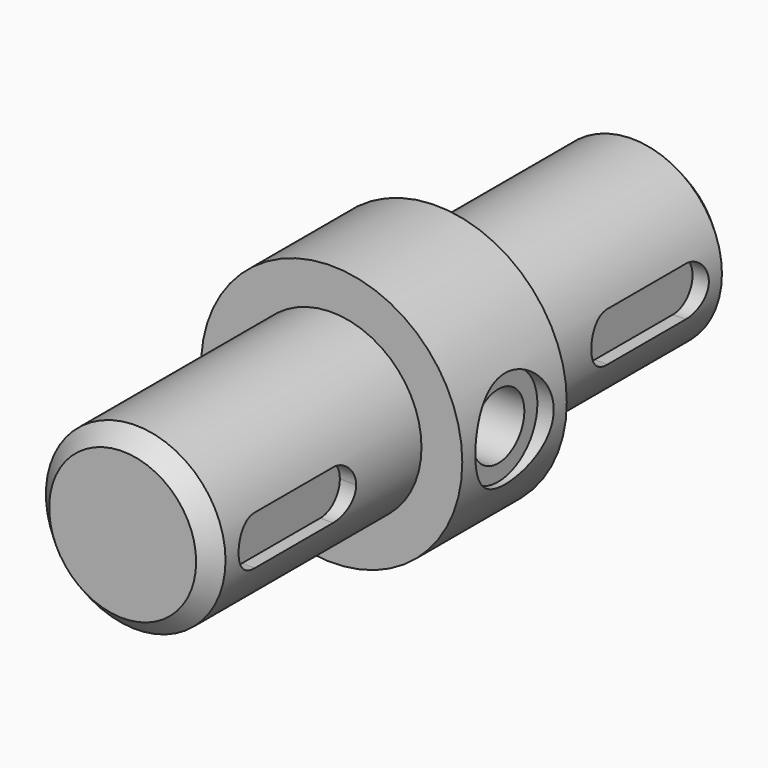
from build123d import *

# Parameters (mm, degrees)
F0_R      = 11
F1_DEPTH  = 40
F2_R      = 16
F3_DEPTH  = 8
F4_R      = 4
F5_DEPTH  = 25
F6_R      = 6
F7_DEPTH  = 25
F8_R      = 6
F8_R_2    = 4
F9_DEPTH  = 14
F11_DEPTH = 25
F13_DEPTH = 9
F14_SIZE2 = 2
F14_SIZE  = 2


with BuildPart() as f1:
    # F0 (on Front) → F1 (new body, symmetric)
    with BuildSketch(Plane.XZ):
        Circle(F0_R)
    extrude(amount=F1_DEPTH, both=True)

    # F2 (on Front) → F3 (join, symmetric)
    with BuildSketch(Plane.XZ):
        Circle(F2_R)
    extrude(amount=F3_DEPTH, both=True)

    # F4 (on Right) → F5 (cut, symmetric)
    with BuildSketch(Plane.YZ):
        Circle(F4_R)
    extrude(amount=F5_DEPTH, both=True, mode=Mode.SUBTRACT)

    # F6 (on Right) → F7 (cut)
    with BuildSketch(Plane.YZ):
        Circle(F6_R)
    extrude(amount=F7_DEPTH, mode=Mode.SUBTRACT)

    # F8 (on Right) → F9 (join)
    with BuildSketch(Plane.YZ):
        Circle(F8_R)
        Circle(F8_R_2, mode=Mode.SUBTRACT)
    extrude(amount=F9_DEPTH)

    # F10 (on Right) → F11 (cut)
    with BuildSketch(Plane.YZ):
        with BuildLine():
            ThreePointArc((-21, -3), (-18.87868, -2.12132), (-18, 0))
            ThreePointArc((-18, 0), (-18.87868, 2.12132), (-21, 3))
            Line((-21, 3), (-33, 3))
            ThreePointArc((-33, 3), (-36, 0), (-33, -3))
            Line((-33, -3), (-21, -3))
        make_face()
        with BuildLine():
            ThreePointArc((21, 3), (18.87868, 2.12132), (18, 0))
            Line((18, 0), (21, 0))
            Line((21, 0), (33, 0))
            Line((33, 0), (33, 3))
            Line((33, 3), (21, 3))
        make_face()
        with BuildLine():
            Line((21, 0), (18, 0))
            ThreePointArc((18, 0), (18.87868, -2.12132), (21, -3))
            Line((21, -3), (33, -3))
            ThreePointArc((33, -3), (36, 0), (33, 3))
            Line((33, 3), (33, 0))
            Line((33, 0), (21, 0))
        make_face()
    extrude(amount=F11_DEPTH, mode=Mode.SUBTRACT)

    # F12 (on Right) → F13 (join)
    with BuildSketch(Plane.YZ):
        with BuildLine():
            ThreePointArc((-21, -3), (-18.87868, -2.12132), (-18, 0))
            ThreePointArc((-18, 0), (-18.87868, 2.12132), (-21, 3))
            Line((-21, 3), (-33, 3))
            ThreePointArc((-33, 3), (-36, 0), (-33, -3))
            Line((-33, -3), (-21, -3))
        make_face()
        with BuildLine():
            ThreePointArc((21, 3), (18.87868, 2.12132), (18, 0))
            ThreePointArc((18, 0), (18.87868, -2.12132), (21, -3))
            Line((21, -3), (33.111546, -3))
            ThreePointArc((33.111546, -3), (36.111546, 0), (33.111546, 3))
            Line((33.111546, 3), (21, 3))
        make_face()
    extrude(amount=F13_DEPTH)

    # F14
    f14_edges = [f1.edges().sort_by_distance(p)[0] for p in [
        (-11, 40, 0),
        (-11, -40, 0),
    ]]
    chamfer(f14_edges, length=F14_SIZE, length2=F14_SIZE2)


solid = f1.part
